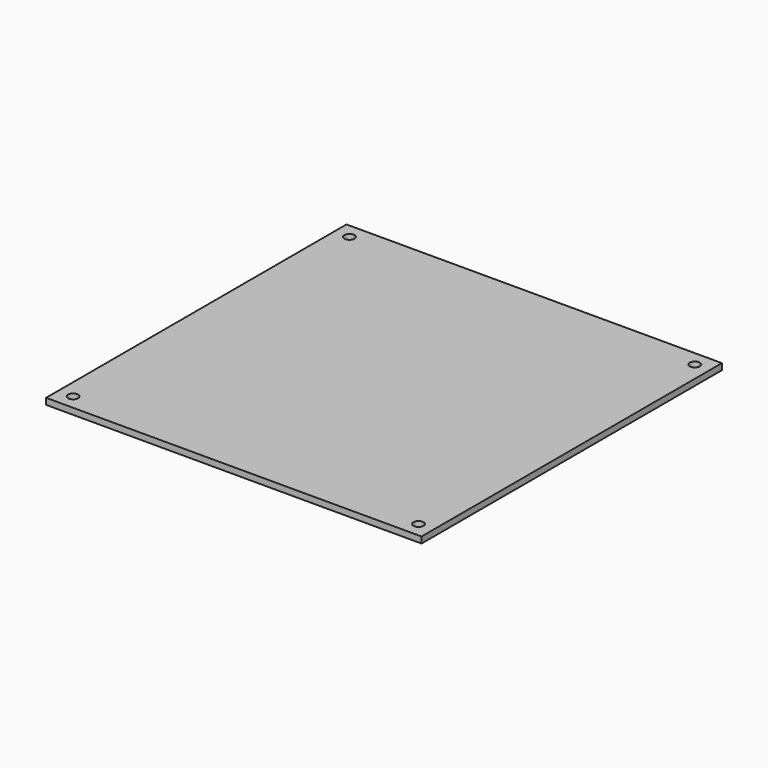
from build123d import *

# Parameters (mm, degrees)
F0_W     = 300
F0_H     = 5
F1_DEPTH = 150
F2_R     = 4
F3_DEPTH = 3


with BuildPart() as f1:
    # F0 (on Front) → F1 (new body, symmetric)
    with BuildSketch(Plane.XZ):
        Rectangle(F0_W, F0_H)
    extrude(amount=F1_DEPTH, both=True)

    # F2 (on Top) → F3 (cut, symmetric)
    with BuildSketch(Plane.XY):
        with Locations((138, -138)):
            Circle(F2_R)
        with Locations((-138, -138)):
            Circle(F2_R)
        with Locations((-138, 138)):
            Circle(F2_R)
        with Locations((138, 138)):
            Circle(F2_R)
    extrude(amount=F3_DEPTH, both=True, mode=Mode.SUBTRACT)


solid = f1.part
